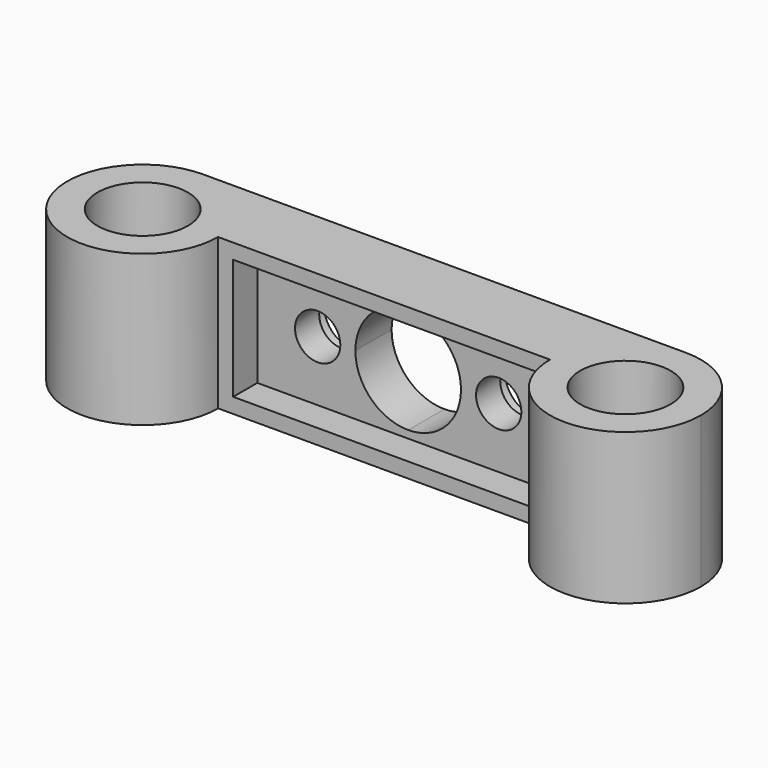
from build123d import *

# Parameters (mm, degrees)
F0_R     = 3
F1_DEPTH = 10
F2_W     = 20
F2_H     = 8
F3_DEPTH = 2
F4_R     = 1.5
F5_DEPTH = 5
F6_R     = 2
F7_DEPTH = 1


with BuildPart() as f1:
    # F0 (on Top) → F1 (new body)
    with BuildSketch(Plane.XY):
        with BuildLine():
            ThreePointArc((-16, 5), (-19.5355339059, -3.5355339059), (-11, 0))
            ThreePointArc((-11, 0), (-12.4644660941, 3.5355339059), (-16, 5))
        make_face()
        with Locations((-16, 0)):
            Circle(F0_R, mode=Mode.SUBTRACT)
        with BuildLine():
            ThreePointArc((-16, 5), (-12.4644660941, 3.5355339059), (-11, 0))
            Line((-11, 0), (11, 0))
            ThreePointArc((11, 0), (12.4644660941, 3.5355339059), (16, 5))
            Line((16, 5), (-16, 5))
        make_face()
        with BuildLine():
            ThreePointArc((16, 5), (12.4644660941, 3.5355339059), (11, 0))
            ThreePointArc((11, 0), (16, -5), (21, 0))
            ThreePointArc((21, 0), (19.5355339059, 3.5355339059), (16, 5))
        make_face()
        with BuildLine():
            ThreePointArc((19, 0), (16, -3), (13, 0))
            ThreePointArc((13, 0), (16, 3), (19, 0))
        make_face(mode=Mode.SUBTRACT)
    extrude(amount=F1_DEPTH)

    # F2 (on face) → F3 (cut)
    with BuildSketch(Plane.XZ):
        with Locations((0, 5)):
            Rectangle(F2_W, F2_H)
    extrude(amount=-F3_DEPTH, mode=Mode.SUBTRACT)

    # F4 (on face) → F5 (cut)
    with BuildSketch(Plane(origin=(0, 5, 0), x_dir=(-1, 0, 0), z_dir=(0, 1, 0))):
        with BuildLine():
            ThreePointArc((3.5, 5), (2.4748737342, 7.4748737342), (0, 8.5))
            Line((0, 8.5), (0, 1.5))
            ThreePointArc((0, 1.5), (2.4748737342, 2.5251262658), (3.5, 5))
        make_face()
        with BuildLine():
            Line((0, 1.5), (0, 8.5))
            ThreePointArc((0, 8.5), (-3.5, 5), (0, 1.5))
        make_face()
        with Locations((6, 5)):
            Circle(F4_R)
        with Locations((-6, 5)):
            Circle(F4_R)
    extrude(amount=-F5_DEPTH, mode=Mode.SUBTRACT)

    # F6 (on face) → F7 (cut)
    with BuildSketch(Plane(origin=(0, 5, 0), x_dir=(-1, 0, 0), z_dir=(0, 1, 0))):
        with Locations((-6, 5)):
            Circle(F6_R)
        with Locations((6, 5)):
            Circle(F6_R)
    extrude(amount=-F7_DEPTH, mode=Mode.SUBTRACT)


solid = f1.part
